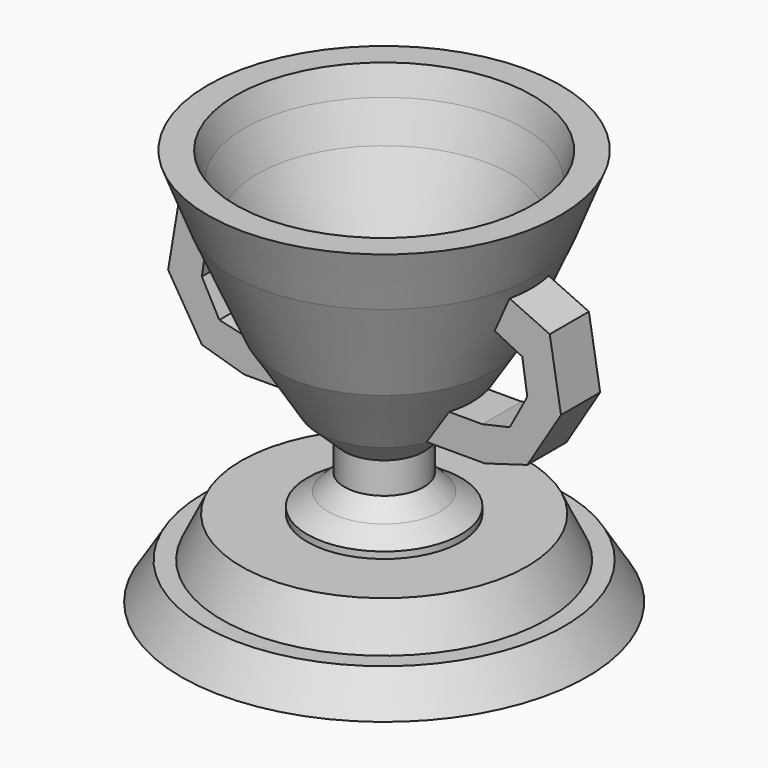
from build123d import *

# Parameters (mm, degrees)
F5_DEPTH = 2.54
F6_DEPTH = 2.54


with BuildPart() as f1:
    # F0 (on Front) → F1 (revolve)
    with BuildSketch(Plane.XZ):
        Polygon((0, -15.305464), (0, -7.240309), (-14.847217, -7.240309), (-16.863504, -11.456186), (-18.696494, -11.456186), (-21.079382, -15.305464), align=None)
    revolve(axis=Axis((0, 0, -11.272887), (0, 0, 1)))

    # F2 (on Front) → F3 (revolve)
    with BuildSketch(Plane.XZ):
        Polygon((-4.272232, -7.943824), (0, -7.943824), (0, 25.965976), (-18.298559, 25.965976), (-15.832391, 19.646421), (-11.362462, 9.473482), (-6.892534, 2.383251), (-4.118097, -0.237052), (-4.118097, -3.473896), (-5.813586, -5.169386), (-7.971482, -6.556605), (-7.971482, -7.943824), align=None)
    revolve(axis=Axis((0, 0, 9.011076), (0, 0, -1)))

    # F4 (on Front) → F5 (join)
    with BuildSketch(Plane.XZ):
        Polygon((-16.37111, 13.455632), (-11.964304, 15.659036), (-13.0012, 19.288169), (-19.222574, 16.436707), (-20.389082, 9.437662), (-16.889559, 3.734736), (-12.482752, 2.438617), (-4.576424, 2.438617), (-4.576424, 3.99396), (-7.168663, 5.938139), (-12.223529, 5.938139), (-15.074992, 6.586199), (-16.889559, 9.956109), align=None)
        Polygon((16.889559, 9.956109), (15.074992, 6.586199), (12.223529, 5.938139), (7.168663, 5.938139), (4.576424, 3.99396), (4.576424, 2.438617), (12.482752, 2.438617), (16.889559, 3.734736), (20.389082, 9.437662), (19.222574, 16.436707), (13.0012, 19.288169), (11.964304, 15.659036), (16.37111, 13.455632), align=None)
    extrude(amount=F5_DEPTH)

    # F4 (on Front) → F6 (join)
    with BuildSketch(Plane.XZ):
        Polygon((-16.37111, 13.455632), (-11.964304, 15.659036), (-13.0012, 19.288169), (-19.222574, 16.436707), (-20.389082, 9.437662), (-16.889559, 3.734736), (-12.482752, 2.438617), (-4.576424, 2.438617), (-4.576424, 3.99396), (-7.168663, 5.938139), (-12.223529, 5.938139), (-15.074992, 6.586199), (-16.889559, 9.956109), align=None)
        Polygon((16.889559, 9.956109), (15.074992, 6.586199), (12.223529, 5.938139), (7.168663, 5.938139), (4.576424, 3.99396), (4.576424, 2.438617), (12.482752, 2.438617), (16.889559, 3.734736), (20.389082, 9.437662), (19.222574, 16.436707), (13.0012, 19.288169), (11.964304, 15.659036), (16.37111, 13.455632), align=None)
    extrude(amount=-F6_DEPTH)

    # F7 (on Front) → F8 (revolve, cut)
    with BuildSketch(Plane.XZ):
        Polygon((0, 3.12148), (0, 23.313222), (0, 27.320744), (-15.84477, 27.320744), (-14.53462, 23.236156), (-13.147401, 19.536905), (-8.75454, 9.441033), (-4.614143, 3.12148), align=None)
    revolve(axis=Axis((0, 0, 15.221112), (0, 0, -1)), mode=Mode.SUBTRACT)


solid = f1.part
